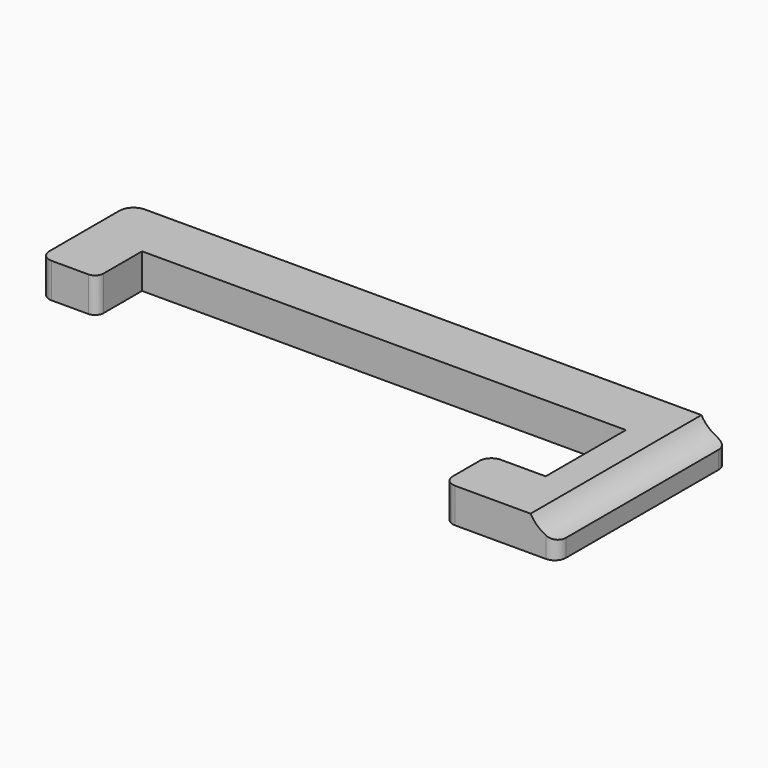
from build123d import *

# Parameters (mm, degrees)
CYLINDER005_R          = 4
CYLINDER005_DEPTH      = 26
CYLINDER005_ROLL_ANGLE = 90
PAD006_DEPTH           = 4


with BuildPart() as cylinder005:
    # Cylinder005 → Cylinder005 (new body)
    with BuildSketch(Plane.XY):
        Circle(CYLINDER005_R)
    extrude(amount=CYLINDER005_DEPTH)


with BuildPart() as cylinder005_1:
    # Cylinder005 roll: moved
    add(cylinder005.part.rotate(Axis((0, 0, 0), (1, 0, 0)), CYLINDER005_ROLL_ANGLE))


with BuildPart() as cylinder005_2:
    # Cylinder005 placement: moved
    add(cylinder005_1.part.moved(Location((4, 1, 6))))


with BuildPart() as basebracket_beveled:
    # Sketch006 → Pad006 (new body)
    with BuildSketch(Plane.XY):
        with BuildLine():
            Line((2.253034, 0.073344), (-63.290852, 0.073344))
            ThreePointArc((-63.290852, 0.073344), (-64.45095, -0.407184), (-64.931478, -1.567282))
            Line((-64.931478, -1.567282), (-64.931478, -11.596925))
            ThreePointArc((-64.931478, -11.596925), (-64.542009, -12.537187), (-63.601747, -12.926656))
            Line((-59.397792, -12.926656), (-63.601747, -12.926656))
            ThreePointArc((-59.397792, -12.926656), (-58.714505, -12.643629), (-58.431478, -11.960342))
            Line((-58.431478, -11.960342), (-58.431478, -6.426656))
            Line((-58.431478, -6.426656), (-2.931478, -6.426656))
            Line((-2.931478, -6.426656), (-2.931478, -17.926656))
            Line((-2.931478, -17.926656), (-8.087364, -17.926656))
            ThreePointArc((-8.087364, -17.926656), (-9.037796, -18.320338), (-9.431478, -19.27077))
            Line((-9.431478, -19.27077), (-9.431478, -23.11525))
            ThreePointArc((-9.431478, -23.11525), (-9.047376, -24.042554), (-8.120072, -24.426656))
            Line((-8.120072, -24.426656), (2.294733, -24.426656))
            ThreePointArc((2.294733, -24.426656), (3.195438, -24.053572), (3.568522, -23.152867))
            Line((3.568522, -1.242144), (3.568522, -23.152867))
            ThreePointArc((3.568522, -1.242144), (3.183225, -0.311953), (2.253034, 0.073344))
        make_face()
    extrude(amount=PAD006_DEPTH)

    # Cut001005: cut Cylinder005
    add(cylinder005_2.part, mode=Mode.SUBTRACT)


solid = basebracket_beveled.part
